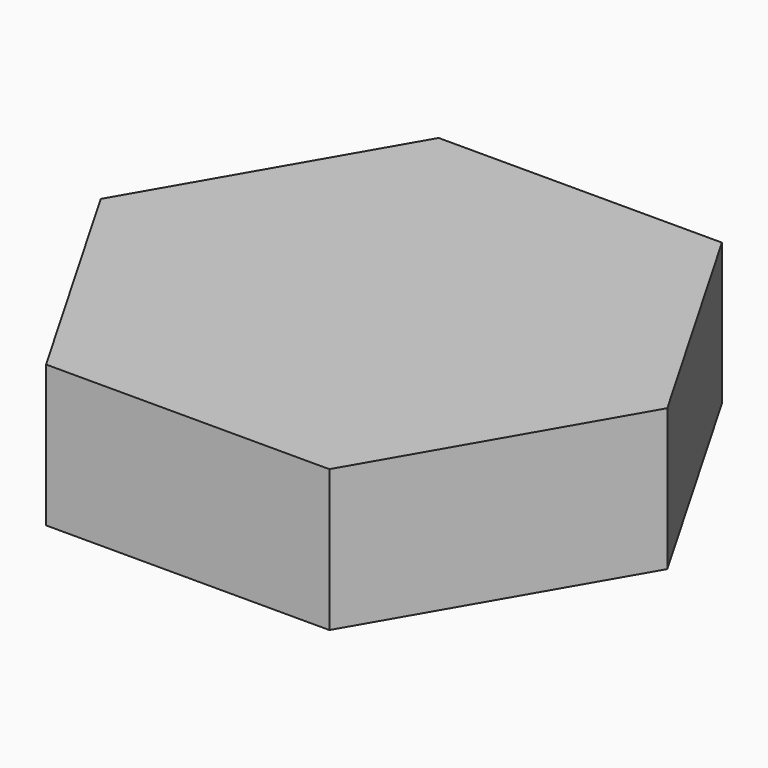
from build123d import *

# Parameters (mm, degrees)
PAD_DEPTH = 50


with BuildPart() as part:
    # Sketch → Pad (new body)
    with BuildSketch(Plane.XY):
        Polygon((100, 0), (50, 86.60254), (-50, 86.60254), (-100, 0), (-50, -86.60254), (50, -86.60254), align=None)
    extrude(amount=PAD_DEPTH)


solid = part.part
